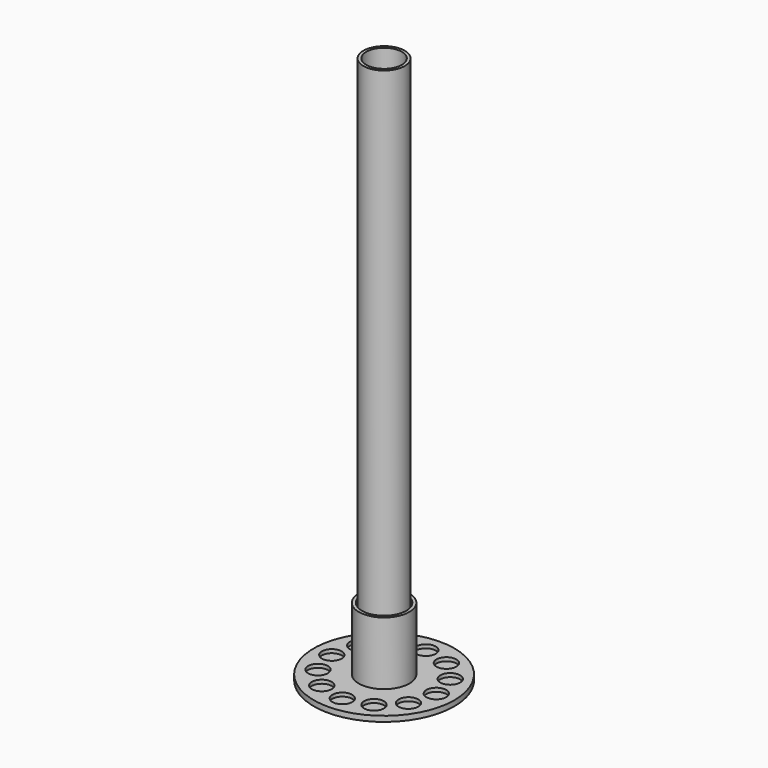
from build123d import *

# Parameters (mm, degrees)
F0_R     = 123.825
F0_R_2   = 17.4625
F0_R_3   = 44.45
F0_R_4   = 38.9636
F0_R_5   = 36.703
F1_DEPTH = 9.525
F2_DEPTH = 3.175
F0_R_6   = 36.5125
F0_R_7   = 31.3563
F3_DEPTH = 965.2
F4_DEPTH = 120.65


with BuildPart() as f1:
    # F0 (on Top) → F1 (new body)
    with BuildSketch(Plane.XY):
        Circle(F0_R)
        with Locations((-46.0375, -79.7392890535)):
            Circle(F0_R_2, mode=Mode.SUBTRACT)
        with Locations((-79.7392890535, -46.0375)):
            Circle(F0_R_2, mode=Mode.SUBTRACT)
        with Locations((0, -92.075)):
            Circle(F0_R_2, mode=Mode.SUBTRACT)
        with Locations((46.0375, -79.7392890535)):
            Circle(F0_R_2, mode=Mode.SUBTRACT)
        with Locations((79.7392890535, -46.0375)):
            Circle(F0_R_2, mode=Mode.SUBTRACT)
        with Locations((-92.075, 0)):
            Circle(F0_R_2, mode=Mode.SUBTRACT)
        with Locations((-79.7392890535, 46.0375)):
            Circle(F0_R_2, mode=Mode.SUBTRACT)
        with Locations((-46.0375, 79.7392890535)):
            Circle(F0_R_2, mode=Mode.SUBTRACT)
        Circle(F0_R_3, mode=Mode.SUBTRACT)
        with Locations((92.075, 0)):
            Circle(F0_R_2, mode=Mode.SUBTRACT)
        with Locations((79.7392890535, 46.0375)):
            Circle(F0_R_2, mode=Mode.SUBTRACT)
        with Locations((0, 92.075)):
            Circle(F0_R_2, mode=Mode.SUBTRACT)
        with Locations((46.0375, 79.7392890535)):
            Circle(F0_R_2, mode=Mode.SUBTRACT)
        Circle(F0_R_3)
        Circle(F0_R_4, mode=Mode.SUBTRACT)
        Circle(F0_R_4)
        Circle(F0_R_5, mode=Mode.SUBTRACT)
    extrude(amount=F1_DEPTH)

    # F0 (on Top) → F2 (join)
    with BuildSketch(Plane.XY):
        with Locations((-46.0375, 79.7392890535)):
            Circle(F0_R_2)
        with Locations((0, 92.075)):
            Circle(F0_R_2)
        with Locations((46.0375, 79.7392890535)):
            Circle(F0_R_2)
        with Locations((92.075, 0)):
            Circle(F0_R_2)
        with Locations((79.7392890535, 46.0375)):
            Circle(F0_R_2)
        with Locations((79.7392890535, -46.0375)):
            Circle(F0_R_2)
        with Locations((46.0375, -79.7392890535)):
            Circle(F0_R_2)
        with Locations((0, -92.075)):
            Circle(F0_R_2)
        with Locations((-46.0375, -79.7392890535)):
            Circle(F0_R_2)
        with Locations((-79.7392890535, -46.0375)):
            Circle(F0_R_2)
        with Locations((-92.075, 0)):
            Circle(F0_R_2)
        with Locations((-79.7392890535, 46.0375)):
            Circle(F0_R_2)
    extrude(amount=F2_DEPTH)


with BuildPart() as f3:
    # F0 (on Top) → F3 (new body)
    with BuildSketch(Plane.XY):
        Circle(F0_R_6)
        Circle(F0_R_7, mode=Mode.SUBTRACT)
    extrude(amount=F3_DEPTH)


with BuildPart() as f4:
    # F0 (on Top) → F4 (new body)
    with BuildSketch(Plane.XY):
        Circle(F0_R_3)
        Circle(F0_R_4, mode=Mode.SUBTRACT)
    extrude(amount=F4_DEPTH)


solid = Compound([f1.part, f3.part, f4.part])
